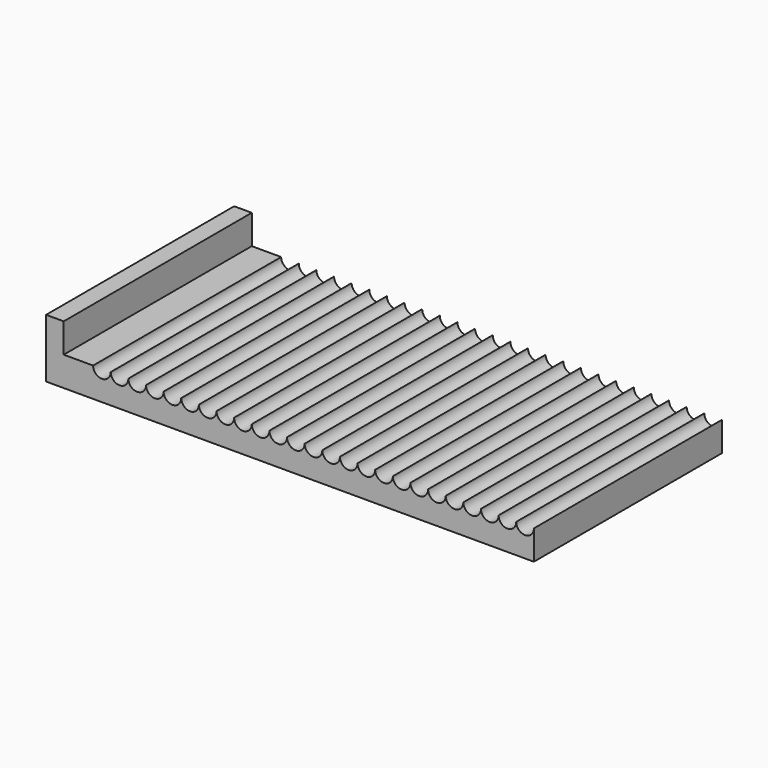
from build123d import *

# Parameters (mm, degrees)
F1_DEPTH = 25.4


with BuildPart() as f1:
    # F0 (on Front) → F1 (new body)
    with BuildSketch(Plane.XZ):
        with BuildLine():
            Line((-1.905, 0), (0, 0))
            Line((0, 0), (50.8, 0))
            Line((50.8, 0), (50.8, 3.175))
            ThreePointArc((50.8, 3.175), (49.8475, 2.2225), (48.895, 3.175))
            ThreePointArc((48.895, 3.175), (47.9425, 2.2225), (46.99, 3.175))
            ThreePointArc((46.99, 3.175), (46.0375, 2.2225), (45.085, 3.175))
            ThreePointArc((45.085, 3.175), (44.1325, 2.2225), (43.18, 3.175))
            ThreePointArc((43.18, 3.175), (42.2275, 2.2225), (41.275, 3.175))
            ThreePointArc((41.275, 3.175), (40.3225, 2.2225), (39.37, 3.175))
            ThreePointArc((39.37, 3.175), (38.4175, 2.2225), (37.465, 3.175))
            ThreePointArc((37.465, 3.175), (36.5125, 2.2225), (35.56, 3.175))
            ThreePointArc((35.56, 3.175), (34.6075, 2.2225), (33.655, 3.175))
            ThreePointArc((33.655, 3.175), (32.7025, 2.2225), (31.75, 3.175))
            ThreePointArc((31.75, 3.175), (30.7975, 2.2225), (29.845, 3.175))
            ThreePointArc((29.845, 3.175), (28.8925, 2.2225), (27.94, 3.175))
            ThreePointArc((27.94, 3.175), (26.9875, 2.2225), (26.035, 3.175))
            ThreePointArc((26.035, 3.175), (25.0825, 2.2225), (24.13, 3.175))
            ThreePointArc((24.13, 3.175), (23.1775, 2.2225), (22.225, 3.175))
            ThreePointArc((22.225, 3.175), (21.2725, 2.2225), (20.32, 3.175))
            ThreePointArc((20.32, 3.175), (19.3675, 2.2225), (18.415, 3.175))
            ThreePointArc((18.415, 3.175), (17.4625, 2.2225), (16.51, 3.175))
            ThreePointArc((16.51, 3.175), (15.5575, 2.2225), (14.605, 3.175))
            ThreePointArc((14.605, 3.175), (13.6525, 2.2225), (12.7, 3.175))
            ThreePointArc((12.7, 3.175), (11.7475, 2.2225), (10.795, 3.175))
            ThreePointArc((10.795, 3.175), (9.8425, 2.2225), (8.89, 3.175))
            ThreePointArc((8.89, 3.175), (7.9375, 2.2225), (6.985, 3.175))
            ThreePointArc((6.985, 3.175), (6.0325, 2.2225), (5.08, 3.175))
            ThreePointArc((5.08, 3.175), (4.1275, 2.2225), (3.175, 3.175))
            Line((3.175, 3.175), (0, 3.175))
            Line((0, 3.175), (0, 6.35))
            Line((0, 6.35), (-1.905, 6.35))
            Line((-1.905, 6.35), (-1.905, 0))
        make_face()
    extrude(amount=F1_DEPTH)


solid = f1.part
